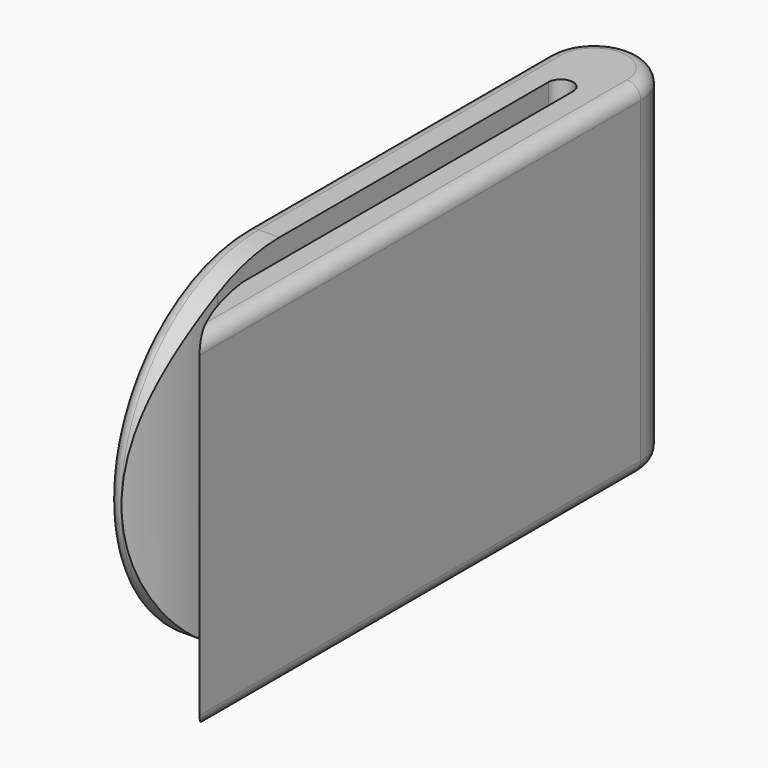
from build123d import *

# Parameters (mm, degrees)
PAD_DEPTH    = 25
POCKET_DEPTH = 5
FILLET_R     = 1


with BuildPart() as part:
    # Sketch → Pad (new body)
    with BuildSketch(Plane.XY):
        with BuildLine():
            Line((-6.8, 40), (-6.8, 0))
            Line((-6.8, 0), (-5.8, 0))
            ThreePointArc((-5.8, 0), (-4.679209, 3.420545), (-4.3, 7))
            Line((-4.3, 7), (-4.3, 37))
            ThreePointArc((-2.5, 37), (-3.4, 37.9), (-4.3, 37))
            Line((-2.5, 37), (-2.5, 6.999997))
            ThreePointArc((-2.5, 6.999997), (-1.632155, 3.363514), (0, 0))
            Line((0, 0), (0, 40))
            ThreePointArc((0, 40), (-3.4, 43.4), (-6.8, 40))
        make_face()
    extrude(amount=PAD_DEPTH)

    # Sketch001 → Pocket (cut)
    with BuildSketch(Plane(origin=(-7.5, 0, 0), x_dir=(0, -1, 0), z_dir=(-1, 0, 0))):
        with BuildLine():
            ThreePointArc((-12.608682, 0), (-0.108682, 12.5), (-12.608682, 25))
            Line((-12.608682, 25), (7.391318, 25))
            Line((7.391318, 25), (7.391318, 0))
            Line((7.391318, 0), (-12.608682, 0))
        make_face()
    extrude(amount=-POCKET_DEPTH, mode=Mode.SUBTRACT)

    # Fillet
    fillet_edges = [part.edges().sort_by_distance(p)[0] for p in [
        (-6.8, 26.304341, 0),
        (-6.8, 0.108682, 12.5),
        (-6.8, 26.304341, 25),
        (-6.8, 40, 12.5),
    ]]
    fillet(fillet_edges, radius=FILLET_R)


solid = part.part
